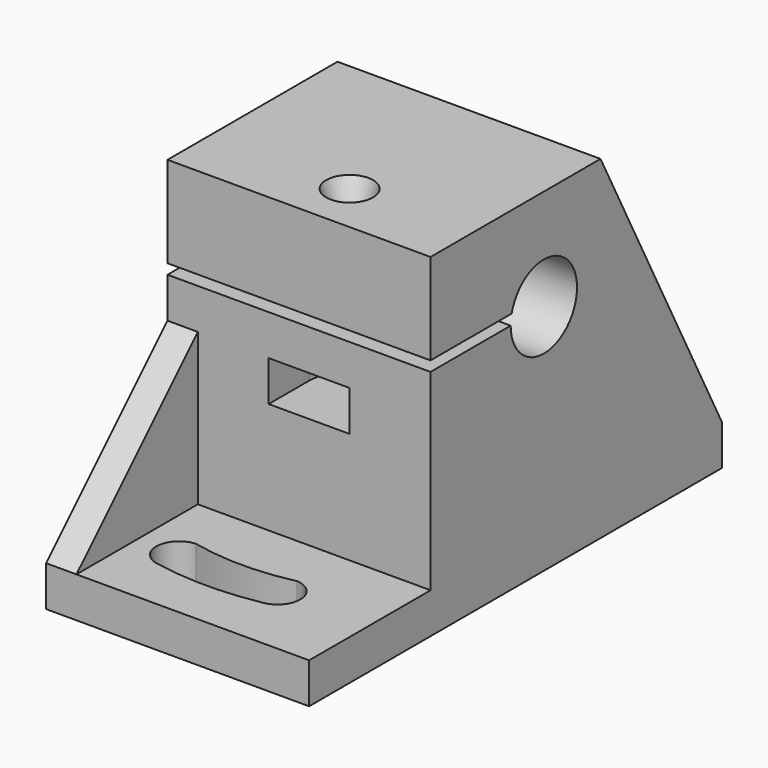
from build123d import *

# Parameters (mm, degrees)
CYLINDER047_R              = 6
CYLINDER047_DEPTH          = 30
CYLINDER049_R              = 2.1
CYLINDER049_DEPTH          = 10
CYLINDER046_R              = 1.6
CYLINDER046_DEPTH          = 15
CYLINDER050_R              = 4
CYLINDER050_DEPTH          = 4
BOX015_W                   = 13
BOX015_H                   = 8
BOX015_DEPTH               = 4
EXTRUDE012_DEPTH           = 3
EXTRUDE012_PLACEMENT_ANGLE = 180
EXTRUDE011_DEPTH           = 10
BOX018_W                   = 51
BOX018_H                   = 26
BOX018_DEPTH               = 4
EXTRUDE010_DEPTH           = 26
CYLINDER048_R              = 4.1
CYLINDER048_DEPTH          = 240
BOX016_W                   = 12
BOX016_H                   = 35
BOX016_DEPTH               = 1
BOX017_W                   = 21
BOX017_H                   = 26
BOX017_DEPTH               = 33
CUT042_PLACEMENT_ANGLE     = 90


with BuildPart() as cylinder047:
    # Cylinder047 → Cylinder047 (new body)
    with BuildSketch(Plane.XY.offset(10)):
        Circle(CYLINDER047_R)
    extrude(amount=CYLINDER047_DEPTH)


with BuildPart() as fusion019:
    # Cylinder049 → Cylinder049 (new body)
    with BuildSketch(Plane.XY):
        Circle(CYLINDER049_R)
    extrude(amount=CYLINDER049_DEPTH)

    # Fusion019: union Cylinder047
    add(cylinder047.part)


with BuildPart() as fusion019_1:
    # Fusion019 placement: moved
    add(fusion019.part.moved(Location((-14, 12, -29))))


with BuildPart() as cylinder046:
    # Cylinder046 → Cylinder046 (new body)
    with BuildSketch(Plane.XY):
        Circle(CYLINDER046_R)
    extrude(amount=CYLINDER046_DEPTH)


with BuildPart() as fusion021:
    # Cone003 → Cone003 (revolve)
    with BuildSketch(Plane(origin=(0, 0, 15), x_dir=(1, 0, 0), z_dir=(0, -1, 0))):
        Polygon((0, 0), (1.6, 0), (2.5, 2.5), (0, 2.5), align=None)
    revolve(axis=Axis((0, 0, 15), (0, 0, 1)))

    # Fusion021: union Cylinder046
    add(cylinder046.part)


with BuildPart() as fusion021_1:
    # Fusion021 placement: moved
    add(fusion021.part.moved(Location((9, 11, -7))))


with BuildPart() as cylinder050:
    # Cylinder050 → Cylinder050 (new body)
    with BuildSketch(Plane(origin=(9, 11, -8), x_dir=(1, 0, 0), z_dir=(0, 0, 1))):
        Circle(CYLINDER050_R)
    extrude(amount=CYLINDER050_DEPTH)


with BuildPart() as fusion018:
    # Box015 → Box015 (new body)
    with BuildSketch(Plane(origin=(9, 7, -8), x_dir=(1, 0, 0), z_dir=(0, 0, 1))):
        with Locations((6.5, 4)):
            Rectangle(BOX015_W, BOX015_H)
    extrude(amount=BOX015_DEPTH)

    # Fusion018: union Cylinder050
    add(cylinder050.part)


with BuildPart() as extrude012:
    # Sketch006 → Extrude012 (new body)
    with BuildSketch(Plane.XZ):
        Polygon((-22, -19), (-7, -19), (-7, -4), align=None)
    extrude(amount=-EXTRUDE012_DEPTH)


with BuildPart() as extrude012_1:
    # Extrude012 placement: moved
    add(extrude012.part.moved(Location((7, 0, 0))).rotate(Axis((7, 0, 0), (0, 0, 1)), EXTRUDE012_PLACEMENT_ANGLE))


with BuildPart() as extrude011:
    # Sketch007 → Extrude011 (new body)
    with BuildSketch(Plane.XY):
        with BuildLine():
            ThreePointArc((35.736492, 10), (36.2, 15), (35.736492, 20))
            ThreePointArc((35.736492, 20), (33.490746, 22.111711), (31.244999, 20))
            ThreePointArc((31.244999, 10), (31.8, 15), (31.244999, 20))
            ThreePointArc((31.244999, 10), (33.490746, 7.888289), (35.736492, 10))
        make_face()
    extrude(amount=-EXTRUDE011_DEPTH)


with BuildPart() as extrude011_1:
    # Extrude011 placement: moved
    add(extrude011.part.moved(Location((-12, -3, -17))))


with BuildPart() as cut044:
    # Box018 → Box018 (new body)
    with BuildSketch(Plane(origin=(-22, 0, -23), x_dir=(1, 0, 0), z_dir=(0, 0, 1))):
        with Locations((25.5, 13)):
            Rectangle(BOX018_W, BOX018_H)
    extrude(amount=BOX018_DEPTH)

    # Cut044: cut Extrude011
    add(extrude011_1.part, mode=Mode.SUBTRACT)


with BuildPart() as cut044_1:
    # Cut044 placement: moved
    add(cut044.part.moved(Location((0, -3, 0))))


with BuildPart() as extrude010:
    # Sketch008 → Extrude010 (new body)
    with BuildSketch(Plane.XZ):
        Polygon((-22, -19), (-7, -19), (-7, 10), align=None)
    extrude(amount=-EXTRUDE010_DEPTH)


with BuildPart() as extrude010_1:
    # Extrude010 placement: moved
    add(extrude010.part.moved(Location((0, -3, 0))))


with BuildPart() as cylinder048:
    # Cylinder048 → Cylinder048 (new body)
    with BuildSketch(Plane(origin=(0, -7, 0), x_dir=(1, 0, 0), z_dir=(0, 1, 0))):
        Circle(CYLINDER048_R)
    extrude(amount=CYLINDER048_DEPTH)


with BuildPart() as box016:
    # Box016 → Box016 (new body)
    with BuildSketch(Plane(origin=(3, -6, 0), x_dir=(1, 0, 0), z_dir=(0, 0, 1))):
        with Locations((6, 17.5)):
            Rectangle(BOX016_W, BOX016_H)
    extrude(amount=BOX016_DEPTH)


with BuildPart() as cut042:
    # Box017 → Box017 (new body)
    with BuildSketch(Plane(origin=(-7, -3, -23), x_dir=(1, 0, 0), z_dir=(0, 0, 1))):
        with Locations((10.5, 13)):
            Rectangle(BOX017_W, BOX017_H)
    extrude(amount=BOX017_DEPTH)

    # Cut045: cut Box016
    add(box016.part, mode=Mode.SUBTRACT)

    # Cut041: cut Cylinder048
    add(cylinder048.part, mode=Mode.SUBTRACT)

    # Fusion020: union Cut044, Extrude010
    add(cut044_1.part)
    add(extrude010_1.part)

    # Fusion017: union Extrude012
    add(extrude012_1.part)

    # Cut043: cut Fusion018
    add(fusion018.part, mode=Mode.SUBTRACT)

    # Cut046: cut Fusion021
    add(fusion021_1.part, mode=Mode.SUBTRACT)

    # Cut042: cut Fusion019
    add(fusion019_1.part, mode=Mode.SUBTRACT)


with BuildPart() as cut042_1:
    # Cut042 placement: moved
    add(cut042.part.moved(Location((278, 7, 23))).rotate(Axis((278, 7, 23), (0, 0, -1)), CUT042_PLACEMENT_ANGLE))


solid = cut042_1.part
